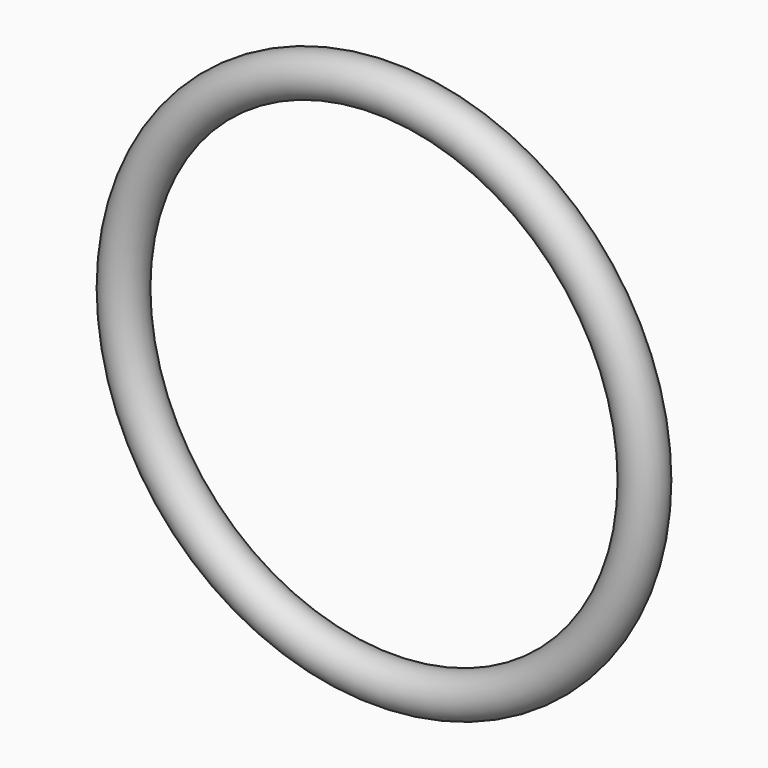
from build123d import *

# Parameters (mm, degrees)
F0_R = 1.25


with BuildPart() as f1:
    # F0 (on Top) → F1 (revolve)
    with BuildSketch(Plane.XY):
        Circle(F0_R)
    revolve(axis=Axis((15.5, -2.613636, 0), (0, -1, 0)))


solid = f1.part
